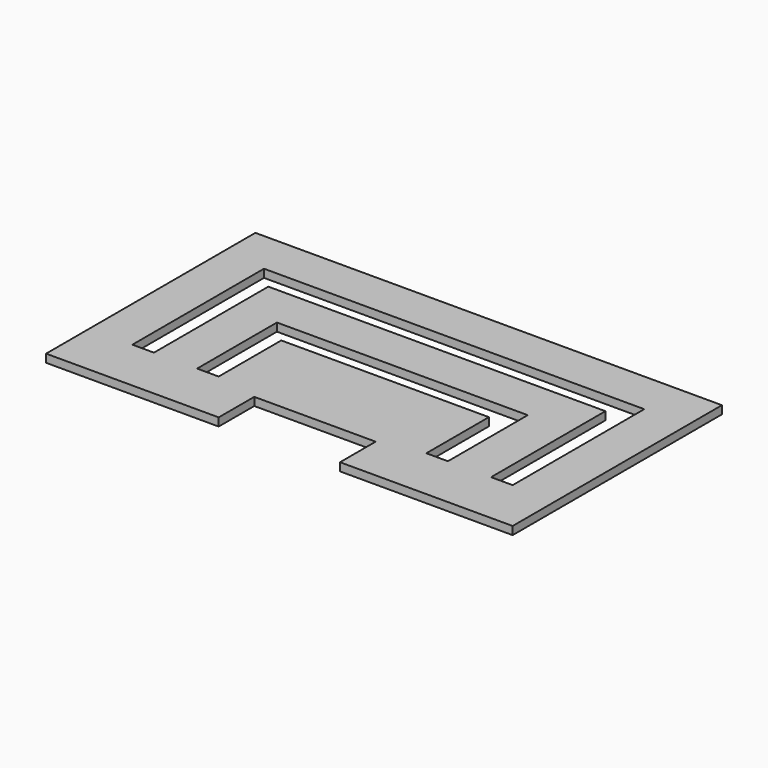
from build123d import *

# Parameters (mm, degrees)
F1_DEPTH = 9.525
F3_DEPTH = 9.526


with BuildPart() as f1:
    # F0 (on Top) → F1 (new body)
    with BuildSketch(Plane.XY):
        Polygon((291.252433, 177.354521), (-258.022567, 177.354521), (-258.022567, -130.620479), (-54.822567, -130.620479), (-54.822567, -78.232979), (88.052433, -78.232979), (88.052433, -130.620479), (291.252433, -130.620479), align=None)
    extrude(amount=F1_DEPTH)

    # F2 (on face) → F3 (cut, through all)
    with BuildSketch(Plane.XY.offset(9.525)):
        Polygon((-207.222567, 126.554521), (-207.222567, -67.120479), (-181.822567, -67.120479), (-181.822567, 101.154521), (215.052433, 101.154521), (215.052433, -67.120479), (240.452433, -67.120479), (240.452433, 126.554521), align=None)
        Polygon((-131.022567, 50.354521), (-131.022567, -67.120479), (-105.622567, -67.120479), (-105.622567, 24.954521), (138.852433, 24.954521), (138.852433, -67.120479), (164.252433, -67.120479), (164.252433, 50.354521), align=None)
    extrude(amount=-F3_DEPTH, mode=Mode.SUBTRACT)


solid = f1.part
